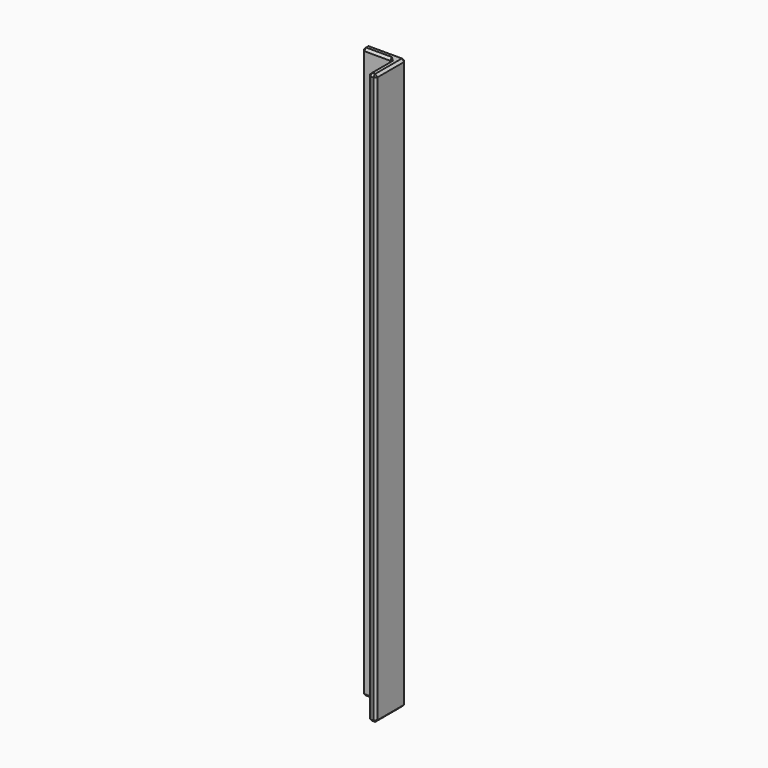
from build123d import *

# Parameters (mm, degrees)
BOX001_W     = 40
BOX001_H     = 40
BOX001_DEPTH = 750
BOX_W        = 50
BOX_H        = 50
BOX_DEPTH    = 750
CHAMFER_SIZE = 3


with BuildPart() as cube001:
    # Box001 → Box001 (new body)
    with BuildSketch(Plane.XY):
        with Locations((20, 20)):
            Rectangle(BOX001_W, BOX001_H)
    extrude(amount=BOX001_DEPTH)


with BuildPart() as chamfer_body:
    # Box → Box (new body)
    with BuildSketch(Plane.XY):
        with Locations((25, 25)):
            Rectangle(BOX_W, BOX_H)
    extrude(amount=BOX_DEPTH)

    # Cut: cut Cube001
    add(cube001.part, mode=Mode.SUBTRACT)

    # Chamfer
    chamfer_edges = [chamfer_body.edges().sort_by_distance(p)[0] for p in [
        (0, 40, 375),
        (0, 45, 750),
        (0, 50, 375),
        (0, 45, 0),
        (20, 40, 0),
        (40, 40, 375),
        (20, 40, 750),
        (25, 50, 750),
        (50, 25, 750),
        (45, 0, 750),
        (40, 20, 750),
        (25, 50, 0),
        (50, 50, 375),
        (50, 25, 0),
        (45, 0, 0),
        (40, 20, 0),
        (40, 0, 375),
        (50, 0, 375),
    ]]
    chamfer(chamfer_edges, length=CHAMFER_SIZE)


solid = chamfer_body.part
